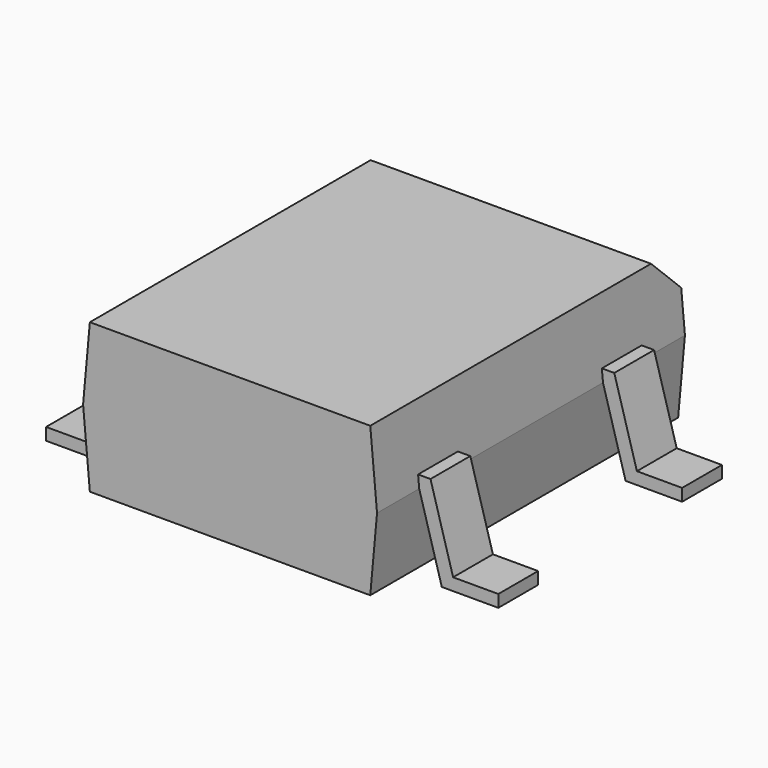
from build123d import *

# Parameters (mm, degrees)
PAD001_DEPTH = 0.55
PAD002_DEPTH = 0.55
PAD_DEPTH    = 4.255
CHAMFER_SIZE = 0.75


with BuildPart() as pad001:
    # Sketch001 → Pad001 (new body, symmetric)
    with BuildSketch(Plane.XZ.offset(2.54)):
        Polygon((-5, 0), (-3.75, 0), (-3.25, 1.75), (3.25, 1.75), (3.75, 0), (5, 0), (5, 0.27), (4, 0.27), (3.5, 2.02), (-3.5, 2.02), (-4, 0.27), (-5, 0.27), align=None)
    extrude(amount=PAD001_DEPTH, both=True)


with BuildPart() as pad002:
    # Sketch002 → Pad002 (new body, symmetric)
    with BuildSketch(Plane.XZ.offset(-2.54)):
        Polygon((-5, 0), (-3.75, 0), (-3.25, 1.75), (3.25, 1.75), (3.75, 0), (5, 0), (5, 0.27), (4, 0.27), (3.5, 2.02), (-3.5, 2.02), (-4, 0.27), (-5, 0.27), align=None)
    extrude(amount=PAD002_DEPTH, both=True)


with BuildPart() as obj1:
    # Sketch → Pad (new body, symmetric)
    with BuildSketch(Plane.XZ):
        Polygon((-3.1, 0.1), (3.1, 0.1), (3.25, 1.75), (3.1, 3.4), (-3.1, 3.4), (-3.25, 1.75), align=None)
    extrude(amount=PAD_DEPTH, both=True)

    # Chamfer
    chamfer_edges = [obj1.edges().sort_by_distance(p)[0] for p in [
        (0, 4.255, 3.4),
    ]]
    chamfer(chamfer_edges, length=CHAMFER_SIZE)

    add(pad001.part)
    add(pad002.part)


solid = obj1.part
